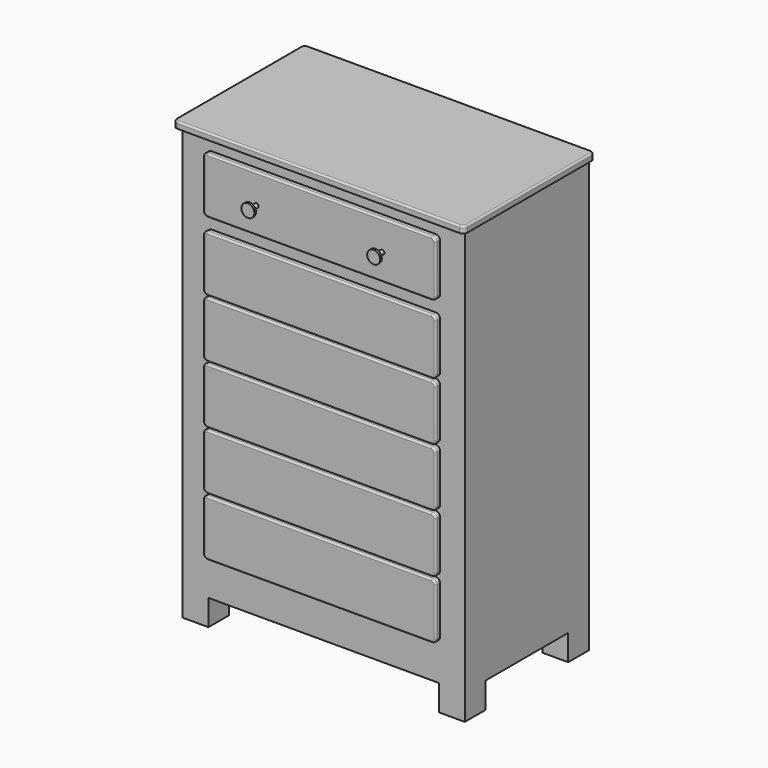
from build123d import *

# Parameters (mm, degrees)
F0_W      = 831.85
F0_H      = 457.2
F1_DEPTH  = 1200.15
F2_W      = 76.2
F2_H      = 76.2
F3_DEPTH  = 76.2
F5_DEPTH  = 19.05
F7_DEPTH  = 15.875
F8_R      = 5.08
F9_R      = 6.35
F10_DEPTH = 25.4
F11_R     = 19.05
F12_DEPTH = 6.35
F13_R     = 19.05
F14_DEPTH = 6.35
F15_R     = 5.08


with BuildPart() as f1:
    # F0 (on Top) → F1 (new body)
    with BuildSketch(Plane.XY):
        with Locations((415.925, 228.6)):
            Rectangle(F0_W, F0_H)
    extrude(amount=F1_DEPTH)

    # F2 (on face) → F3 (join)
    with BuildSketch(Plane(origin=(0, 0, 0), x_dir=(1, 0, 0), z_dir=(0, 0, -1))):
        with Locations((38.1, -38.1)):
            Rectangle(F2_W, F2_H)
        with Locations((38.1, -419.1)):
            Rectangle(F2_W, F2_H)
        with Locations((793.75, -38.1)):
            Rectangle(F2_W, F2_H)
        with Locations((793.75, -419.1)):
            Rectangle(F2_W, F2_H)
    extrude(amount=F3_DEPTH)

    # F4 (on face) → F5 (join)
    with BuildSketch(Plane.XY.offset(1200.15)):
        with BuildLine():
            Line((831.85, 463.55), (0, 463.55))
            ThreePointArc((0, 463.55), (-8.980256, 459.830256), (-12.7, 450.85))
            Line((-12.7, 450.85), (-12.7, -6.35))
            ThreePointArc((-12.7, -6.35), (-8.980256, -15.330256), (0, -19.05))
            Line((0, -19.05), (831.85, -19.05))
            ThreePointArc((831.85, -19.05), (840.830256, -15.330256), (844.55, -6.35))
            Line((844.55, -6.35), (844.55, 450.85))
            ThreePointArc((844.55, 450.85), (840.830256, 459.830256), (831.85, 463.55))
        make_face()
    extrude(amount=F5_DEPTH)

    # F6 (on face) → F7 (join)
    with BuildSketch(Plane.XZ):
        with BuildLine():
            Line((746.125, 1162.05), (85.725, 1162.05))
            ThreePointArc((85.725, 1162.05), (76.744744, 1158.330256), (73.025, 1149.35))
            Line((73.025, 1149.35), (73.025, 1009.65))
            ThreePointArc((73.025, 1009.65), (76.744744, 1000.669744), (85.725, 996.95))
            Line((85.725, 996.95), (746.125, 996.95))
            ThreePointArc((746.125, 996.95), (755.105256, 1000.669744), (758.825, 1009.65))
            Line((758.825, 1009.65), (758.825, 1149.35))
            ThreePointArc((758.825, 1149.35), (755.105256, 1158.330256), (746.125, 1162.05))
        make_face()
        with BuildLine():
            Line((746.125, 958.85), (85.725, 958.85))
            ThreePointArc((85.725, 958.85), (76.744744, 955.130256), (73.025, 946.15))
            Line((73.025, 946.15), (73.025, 806.45))
            ThreePointArc((73.025, 806.45), (76.744744, 797.469744), (85.725, 793.75))
            Line((85.725, 793.75), (746.125, 793.75))
            ThreePointArc((746.125, 793.75), (755.105256, 797.469744), (758.825, 806.45))
            Line((758.825, 806.45), (758.825, 946.15))
            ThreePointArc((758.825, 946.15), (755.105256, 955.130256), (746.125, 958.85))
        make_face()
        with BuildLine():
            Line((746.125, 787.4), (85.725, 787.4))
            ThreePointArc((85.725, 787.4), (76.744744, 783.680256), (73.025, 774.7))
            Line((73.025, 774.7), (73.025, 635))
            ThreePointArc((73.025, 635), (76.744744, 626.019744), (85.725, 622.3))
            Line((85.725, 622.3), (746.125, 622.3))
            ThreePointArc((746.125, 622.3), (755.105256, 626.019744), (758.825, 635))
            Line((758.825, 635), (758.825, 774.7))
            ThreePointArc((758.825, 774.7), (755.105256, 783.680256), (746.125, 787.4))
        make_face()
        with BuildLine():
            Line((746.125, 615.95), (85.725, 615.95))
            ThreePointArc((85.725, 615.95), (76.744744, 612.230256), (73.025, 603.25))
            Line((73.025, 603.25), (73.025, 463.55))
            ThreePointArc((73.025, 463.55), (76.744744, 454.569744), (85.725, 450.85))
            Line((85.725, 450.85), (746.125, 450.85))
            ThreePointArc((746.125, 450.85), (755.105256, 454.569744), (758.825, 463.55))
            Line((758.825, 463.55), (758.825, 603.25))
            ThreePointArc((758.825, 603.25), (755.105256, 612.230256), (746.125, 615.95))
        make_face()
        with BuildLine():
            Line((746.125, 444.5), (85.725, 444.5))
            ThreePointArc((85.725, 444.5), (76.744744, 440.780256), (73.025, 431.8))
            Line((73.025, 431.8), (73.025, 292.1))
            ThreePointArc((73.025, 292.1), (76.744744, 283.119744), (85.725, 279.4))
            Line((85.725, 279.4), (746.125, 279.4))
            ThreePointArc((746.125, 279.4), (755.105256, 283.119744), (758.825, 292.1))
            Line((758.825, 292.1), (758.825, 431.8))
            ThreePointArc((758.825, 431.8), (755.105256, 440.780256), (746.125, 444.5))
        make_face()
        with BuildLine():
            Line((746.125, 273.05), (85.725, 273.05))
            ThreePointArc((85.725, 273.05), (76.744744, 269.330256), (73.025, 260.35))
            Line((73.025, 260.35), (73.025, 120.65))
            ThreePointArc((73.025, 120.65), (76.744744, 111.669744), (85.725, 107.95))
            Line((85.725, 107.95), (746.125, 107.95))
            ThreePointArc((746.125, 107.95), (755.105256, 111.669744), (758.825, 120.65))
            Line((758.825, 120.65), (758.825, 260.35))
            ThreePointArc((758.825, 260.35), (755.105256, 269.330256), (746.125, 273.05))
        make_face()
    extrude(amount=F7_DEPTH)

    # F8
    f8_edges = [f1.edges().sort_by_distance(p)[0] for p in [
        (415.925, -15.875, 1162.05),
        (76.744744, -15.875, 1158.330256),
        (73.025, -15.875, 1079.5),
        (76.744744, -15.875, 1000.669744),
        (415.925, -15.875, 996.95),
        (755.105256, -15.875, 1000.669744),
        (758.825, -15.875, 1079.5),
        (755.105256, -15.875, 1158.330256),
        (415.925, -15.875, 958.85),
        (76.744744, -15.875, 955.130256),
        (73.025, -15.875, 876.3),
        (76.744744, -15.875, 797.469744),
        (415.925, -15.875, 793.75),
        (755.105256, -15.875, 797.469744),
        (758.825, -15.875, 876.3),
        (755.105256, -15.875, 955.130256),
        (415.925, -15.875, 787.4),
        (76.744744, -15.875, 783.680256),
        (73.025, -15.875, 704.85),
        (76.744744, -15.875, 626.019744),
        (415.925, -15.875, 622.3),
        (755.105256, -15.875, 626.019744),
        (758.825, -15.875, 704.85),
        (755.105256, -15.875, 783.680256),
        (415.925, -15.875, 615.95),
        (76.744744, -15.875, 612.230256),
        (73.025, -15.875, 533.4),
        (76.744744, -15.875, 454.569744),
        (415.925, -15.875, 450.85),
        (755.105256, -15.875, 454.569744),
        (758.825, -15.875, 533.4),
        (755.105256, -15.875, 612.230256),
        (415.925, -15.875, 444.5),
        (76.744744, -15.875, 440.780256),
        (73.025, -15.875, 361.95),
        (76.744744, -15.875, 283.119744),
        (415.925, -15.875, 279.4),
        (755.105256, -15.875, 283.119744),
        (758.825, -15.875, 361.95),
        (755.105256, -15.875, 440.780256),
        (415.925, -15.875, 273.05),
        (76.744744, -15.875, 269.330256),
        (73.025, -15.875, 190.5),
        (76.744744, -15.875, 111.669744),
        (415.925, -15.875, 107.95),
        (755.105256, -15.875, 111.669744),
        (758.825, -15.875, 190.5),
        (755.105256, -15.875, 269.330256),
    ]]
    fillet(f8_edges, radius=F8_R)

    # F9 (on face) → F10 (join)
    with BuildSketch(Plane.XZ.offset(15.875)):
        with Locations((230.505, 1074.42)):
            Circle(F9_R)
        with Locations((601.345, 1074.42)):
            Circle(F9_R)
    extrude(amount=F10_DEPTH)

    # F11 (on face) → F12 (join)
    with BuildSketch(Plane.XZ.offset(41.275)):
        with Locations((230.505, 1074.42)):
            Circle(F11_R)
    extrude(amount=F12_DEPTH)

    # F13 (on face) → F14 (join)
    with BuildSketch(Plane.XZ.offset(41.275)):
        with Locations((601.345, 1074.42)):
            Circle(F13_R)
    extrude(amount=F14_DEPTH)

    # F15
    f15_edges = [f1.edges().sort_by_distance(p)[0] for p in [
        (844.55, 222.25, 1219.2),
        (840.830256, 459.830256, 1219.2),
        (415.925, 463.55, 1219.2),
        (-8.980256, 459.830256, 1219.2),
        (-12.7, 222.25, 1219.2),
        (-8.980256, -15.330256, 1219.2),
        (415.925, -19.05, 1219.2),
        (840.830256, -15.330256, 1219.2),
    ]]
    fillet(f15_edges, radius=F15_R)


solid = f1.part
